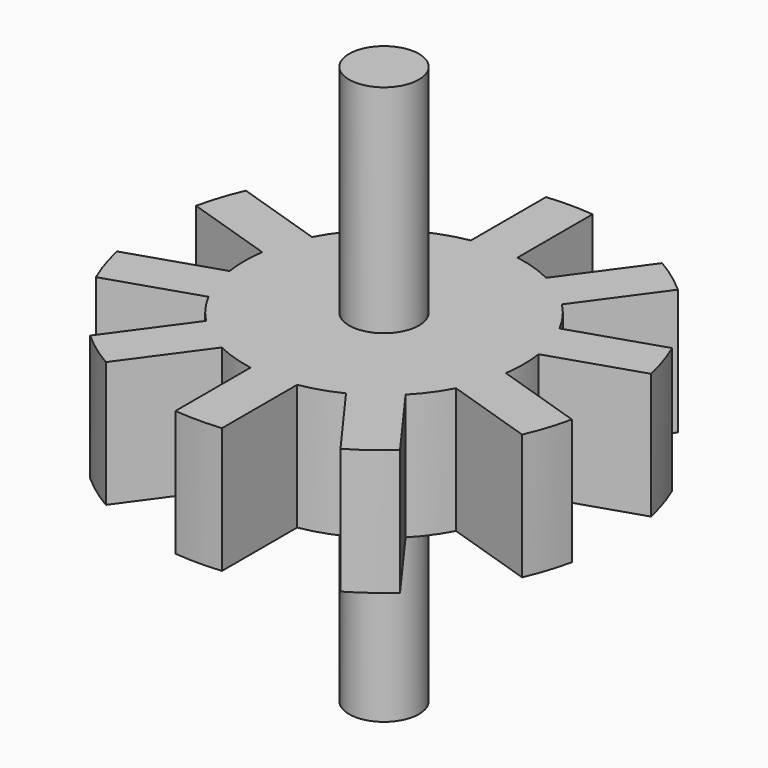
from build123d import *

# Parameters (mm, degrees)
F1_DEPTH = 1.35
F2_R     = 0.75
F3_DEPTH = 6


with BuildPart() as f1:
    # F0 (on Top) → F1 (new body, symmetric)
    with BuildSketch(Plane.XY):
        with BuildLine():
            ThreePointArc((-2.9677716115, -0.4385563384), (-2.8531695489, -0.9270509831), (-2.6587546171, -1.3896128547))
            Line((-2.6587546171, -1.3896128547), (-1.3090169944, -0.9510565163))
            Line((-1.3090169944, -0.9510565163), (-0.8090169944, -0.2628655561))
            Line((-0.8090169944, -0.2628655561), (-1.6180339887, 0))
            Line((-1.6180339887, 0), (-2.9677716115, -0.4385563384))
        make_face()
        with BuildLine():
            ThreePointArc((2.1432007211, -2.0992119162), (2.4270509831, -1.7633557569), (2.6587546171, -1.3896128547))
            Line((2.6587546171, -1.3896128547), (1.3090169944, -0.9510565163))
            Line((1.3090169944, -0.9510565163), (2.1432007211, -2.0992119162))
        make_face()
        with BuildLine():
            ThreePointArc((-2.1432007211, -2.0992119162), (-1.7633557569, -2.4270509831), (-1.3341837268, -2.6869971684))
            Line((-1.3341837268, -2.6869971684), (-0.5, -1.5388417686))
            Line((-0.5, -1.5388417686), (-0.5, -0.6881909602))
            Line((-0.5, -0.6881909602), (-1.3090169944, -0.9510565163))
            Line((-1.3090169944, -0.9510565163), (-2.1432007211, -2.0992119162))
        make_face()
        Polygon((0.6180339887, 0), (0.8090169944, 0.2628655561), (0.5, 0.363271264), (0.5, 0.1624598481), align=None)
        with BuildLine():
            ThreePointArc((0.5, -2.9580398915), (0.9270509831, -2.8531695489), (1.3341837268, -2.6869971684))
            Line((1.3341837268, -2.6869971684), (0.5, -1.5388417686))
            Line((0.5, -1.5388417686), (0.5, -2.9580398915))
        make_face()
        with BuildLine():
            ThreePointArc((0.4045084972, -0.2938926261), (0.4755282581, -0.1545084972), (0.5, 0))
            Line((0.5, 0), (-0.5, 0))
            ThreePointArc((-0.5, 0), (-0.4755282581, -0.1545084972), (-0.4045084972, -0.2938926261))
            ThreePointArc((-0.4045084972, -0.2938926261), (-0.2938926261, -0.4045084972), (-0.1545084972, -0.4755282581))
            ThreePointArc((-0.1545084972, -0.4755282581), (0, -0.5), (0.1545084972, -0.4755282581))
            ThreePointArc((0.1545084972, -0.4755282581), (0.2938926261, -0.4045084972), (0.4045084972, -0.2938926261))
        make_face()
        Polygon((-0.6180339887, 0), (-0.5, 0.1624598481), (-0.5, 0.363271264), (-0.8090169944, 0.2628655561), align=None)
        Polygon((0.5, -0.6881909602), (0.5, -0.363271264), (0.3090169944, -0.4253254042), (0.1909830056, -0.5877852523), align=None)
        with BuildLine():
            Line((-0.5, 1.5388417686), (-0.5, 2.9580398915))
            ThreePointArc((-0.5, 2.9580398915), (-0.9270509831, 2.8531695489), (-1.3341837268, 2.6869971684))
            Line((-1.3341837268, 2.6869971684), (-0.5, 1.5388417686))
        make_face()
        with BuildLine():
            Line((0.5, 1.5388417686), (1.3341837268, 2.6869971684))
            ThreePointArc((1.3341837268, 2.6869971684), (0.9270509831, 2.8531695489), (0.5, 2.9580398915))
            Line((0.5, 2.9580398915), (0.5, 1.5388417686))
        make_face()
        with BuildLine():
            Line((1.3090169944, 0.9510565163), (2.6587546171, 1.3896128547))
            ThreePointArc((2.6587546171, 1.3896128547), (2.4270509831, 1.7633557569), (2.1432007211, 2.0992119162))
            Line((2.1432007211, 2.0992119162), (1.3090169944, 0.9510565163))
        make_face()
        Polygon((0.8090169944, 0.2628655561), (1.3090169944, 0.9510565163), (0.5, 0.6881909602), (0.5, 0.363271264), align=None)
        Polygon((-0.5, -0.6881909602), (-0.1909830056, -0.5877852523), (-0.3090169944, -0.4253254042), (-0.5, -0.363271264), align=None)
        with BuildLine():
            Line((-1.3090169944, 0.9510565163), (-2.6587546171, 1.3896128547))
            ThreePointArc((-2.6587546171, 1.3896128547), (-2.8531695489, 0.9270509831), (-2.9677716115, 0.4385563384))
            Line((-2.9677716115, 0.4385563384), (-1.6180339887, 0))
            Line((-1.6180339887, 0), (-0.8090169944, 0.2628655561))
            Line((-0.8090169944, 0.2628655561), (-1.3090169944, 0.9510565163))
        make_face()
        with BuildLine():
            Line((-1.6180339887, 0), (-2.9677716115, 0.4385563384))
            ThreePointArc((-2.9677716115, 0.4385563384), (-3, 0), (-2.9677716115, -0.4385563384))
            Line((-2.9677716115, -0.4385563384), (-1.6180339887, 0))
        make_face()
        with BuildLine():
            ThreePointArc((-1.3341837268, -2.6869971684), (-0.9270509831, -2.8531695489), (-0.5, -2.9580398915))
            Line((-0.5, -2.9580398915), (-0.5, -1.5388417686))
            Line((-0.5, -1.5388417686), (-1.3341837268, -2.6869971684))
        make_face()
        with BuildLine():
            Line((-1.3090169944, 0.9510565163), (-2.1432007211, 2.0992119162))
            ThreePointArc((-2.1432007211, 2.0992119162), (-2.4270509831, 1.7633557569), (-2.6587546171, 1.3896128547))
            Line((-2.6587546171, 1.3896128547), (-1.3090169944, 0.9510565163))
        make_face()
        with BuildLine():
            ThreePointArc((-2.6587546171, -1.3896128547), (-2.4270509831, -1.7633557569), (-2.1432007211, -2.0992119162))
            Line((-2.1432007211, -2.0992119162), (-1.3090169944, -0.9510565163))
            Line((-1.3090169944, -0.9510565163), (-2.6587546171, -1.3896128547))
        make_face()
        Polygon((-0.3090169944, 0.4253254042), (-0.1909830056, 0.5877852523), (-0.5, 0.6881909602), (-0.5, 0.363271264), align=None)
        Polygon((0.5, -1.5388417686), (0.5, -0.6881909602), (0.1909830056, -0.5877852523), (0, -0.8506508084), align=None)
        with BuildLine():
            Line((-0.5, 0), (0.5, 0))
            ThreePointArc((0.5, 0), (0.4755282581, 0.1545084972), (0.4045084972, 0.2938926261))
            ThreePointArc((0.4045084972, 0.2938926261), (0.2938926261, 0.4045084972), (0.1545084972, 0.4755282581))
            ThreePointArc((0.1545084972, 0.4755282581), (0, 0.5), (-0.1545084972, 0.4755282581))
            ThreePointArc((-0.1545084972, 0.4755282581), (-0.2938926261, 0.4045084972), (-0.4045084972, 0.2938926261))
            ThreePointArc((-0.4045084972, 0.2938926261), (-0.4755282581, 0.1545084972), (-0.5, 0))
        make_face()
        with BuildLine():
            Line((1.6180339887, 0), (2.9677716115, 0.4385563384))
            ThreePointArc((2.9677716115, 0.4385563384), (2.8531695489, 0.9270509831), (2.6587546171, 1.3896128547))
            Line((2.6587546171, 1.3896128547), (1.3090169944, 0.9510565163))
            Line((1.3090169944, 0.9510565163), (0.8090169944, 0.2628655561))
            Line((0.8090169944, 0.2628655561), (1.6180339887, 0))
        make_face()
        Polygon((0.1909830056, 0.5877852523), (0.5, 0.6881909602), (0.5, 1.5388417686), (0, 0.8506508084), align=None)
        Polygon((-0.5, 0.363271264), (-0.5, 0.6881909602), (-1.3090169944, 0.9510565163), (-0.8090169944, 0.2628655561), align=None)
        with BuildLine():
            Line((0.5, 1.5388417686), (0.5, 2.9580398915))
            ThreePointArc((0.5, 2.9580398915), (0, 3), (-0.5, 2.9580398915))
            Line((-0.5, 2.9580398915), (-0.5, 1.5388417686))
            Line((-0.5, 1.5388417686), (0, 0.8506508084))
            Line((0, 0.8506508084), (0.5, 1.5388417686))
        make_face()
        with BuildLine():
            ThreePointArc((2.6587546171, -1.3896128547), (2.8531695489, -0.9270509831), (2.9677716115, -0.4385563384))
            Line((2.9677716115, -0.4385563384), (1.6180339887, 0))
            Line((1.6180339887, 0), (0.8090169944, -0.2628655561))
            Line((0.8090169944, -0.2628655561), (1.3090169944, -0.9510565163))
            Line((1.3090169944, -0.9510565163), (2.6587546171, -1.3896128547))
        make_face()
        Polygon((-0.5, -0.363271264), (-0.5, -0.1624598481), (-0.6180339887, 0), (-0.8090169944, -0.2628655561), align=None)
        Polygon((0.8090169944, -0.2628655561), (1.6180339887, 0), (0.8090169944, 0.2628655561), (0.6180339887, 0), align=None)
        Polygon((-0.1909830056, 0.5877852523), (0, 0.8506508084), (-0.5, 1.5388417686), (-0.5, 0.6881909602), align=None)
        Polygon((0, -0.8506508084), (0.1909830056, -0.5877852523), (0, -0.5257311121), (-0.1909830056, -0.5877852523), align=None)
        Polygon((0, 0.5257311121), (0.1909830056, 0.5877852523), (0, 0.8506508084), (-0.1909830056, 0.5877852523), align=None)
        with BuildLine():
            ThreePointArc((1.3341837268, -2.6869971684), (1.7633557569, -2.4270509831), (2.1432007211, -2.0992119162))
            Line((2.1432007211, -2.0992119162), (1.3090169944, -0.9510565163))
            Line((1.3090169944, -0.9510565163), (0.5, -0.6881909602))
            Line((0.5, -0.6881909602), (0.5, -1.5388417686))
            Line((0.5, -1.5388417686), (1.3341837268, -2.6869971684))
        make_face()
        with BuildLine():
            Line((1.3090169944, 0.9510565163), (2.1432007211, 2.0992119162))
            ThreePointArc((2.1432007211, 2.0992119162), (1.7633557569, 2.4270509831), (1.3341837268, 2.6869971684))
            Line((1.3341837268, 2.6869971684), (0.5, 1.5388417686))
            Line((0.5, 1.5388417686), (0.5, 0.6881909602))
            Line((0.5, 0.6881909602), (1.3090169944, 0.9510565163))
        make_face()
        Polygon((-0.8090169944, -0.2628655561), (-0.6180339887, 0), (-0.8090169944, 0.2628655561), (-1.6180339887, 0), align=None)
        Polygon((0.5, -0.363271264), (0.8090169944, -0.2628655561), (0.6180339887, 0), (0.5, -0.1624598481), align=None)
        Polygon((-0.5, -1.5388417686), (0, -0.8506508084), (-0.1909830056, -0.5877852523), (-0.5, -0.6881909602), align=None)
        with BuildLine():
            ThreePointArc((-0.5, -2.9580398915), (0, -3), (0.5, -2.9580398915))
            Line((0.5, -2.9580398915), (0.5, -1.5388417686))
            Line((0.5, -1.5388417686), (0, -0.8506508084))
            Line((0, -0.8506508084), (-0.5, -1.5388417686))
            Line((-0.5, -1.5388417686), (-0.5, -2.9580398915))
        make_face()
        with BuildLine():
            ThreePointArc((2.9677716115, -0.4385563384), (2.9919320543, -0.2198694675), (3, 0))
            ThreePointArc((3, 0), (2.9919320543, 0.2198694675), (2.9677716115, 0.4385563384))
            Line((2.9677716115, 0.4385563384), (1.6180339887, 0))
            Line((1.6180339887, 0), (2.9677716115, -0.4385563384))
        make_face()
        Polygon((1.3090169944, -0.9510565163), (0.8090169944, -0.2628655561), (0.5, -0.363271264), (0.5, -0.6881909602), align=None)
        Polygon((0.5, 0.363271264), (0.5, 0.6881909602), (0.1909830056, 0.5877852523), (0.3090169944, 0.4253254042), align=None)
        with BuildLine():
            Line((-0.5, 1.5388417686), (-1.3341837268, 2.6869971684))
            ThreePointArc((-1.3341837268, 2.6869971684), (-1.7633557569, 2.4270509831), (-2.1432007211, 2.0992119162))
            Line((-2.1432007211, 2.0992119162), (-1.3090169944, 0.9510565163))
            Line((-1.3090169944, 0.9510565163), (-0.5, 0.6881909602))
            Line((-0.5, 0.6881909602), (-0.5, 1.5388417686))
        make_face()
        Polygon((-1.3090169944, -0.9510565163), (-0.5, -0.6881909602), (-0.5, -0.363271264), (-0.8090169944, -0.2628655561), align=None)
        Polygon((-0.1909830056, -0.5877852523), (0, -0.5257311121), (-0.1545084972, -0.4755282581), (-0.3090169944, -0.4253254042), align=None)
        Polygon((0.3090169944, -0.4253254042), (0.5, -0.363271264), (0.5, -0.1624598481), (0.4045084972, -0.2938926261), align=None)
        Polygon((-0.1545084972, 0.4755282581), (0, 0.5257311121), (-0.1909830056, 0.5877852523), (-0.3090169944, 0.4253254042), align=None)
        Polygon((-0.4045084972, -0.2938926261), (-0.5, -0.1624598481), (-0.5, -0.363271264), (-0.3090169944, -0.4253254042), align=None)
        Polygon((0.3090169944, 0.4253254042), (0.1909830056, 0.5877852523), (0, 0.5257311121), (0.1545084972, 0.4755282581), align=None)
        Polygon((0.1909830056, -0.5877852523), (0.3090169944, -0.4253254042), (0.1545084972, -0.4755282581), (0, -0.5257311121), align=None)
        with BuildLine():
            Line((-0.5, 0.1624598481), (-0.5, 0))
            ThreePointArc((-0.5, 0), (-0.4755282581, 0.1545084972), (-0.4045084972, 0.2938926261))
            Line((-0.4045084972, 0.2938926261), (-0.5, 0.1624598481))
        make_face()
        Polygon((0.5, -0.1624598481), (0.6180339887, 0), (0.5, 0.1624598481), (0.5, 0), align=None)
        Polygon((0.5, 0.1624598481), (0.5, 0.363271264), (0.3090169944, 0.4253254042), (0.4045084972, 0.2938926261), align=None)
        with BuildLine():
            Line((-0.3090169944, -0.4253254042), (-0.1545084972, -0.4755282581))
            ThreePointArc((-0.1545084972, -0.4755282581), (-0.2938926261, -0.4045084972), (-0.4045084972, -0.2938926261))
            Line((-0.4045084972, -0.2938926261), (-0.3090169944, -0.4253254042))
        make_face()
        Polygon((-0.4045084972, 0.2938926261), (-0.3090169944, 0.4253254042), (-0.5, 0.363271264), (-0.5, 0.1624598481), align=None)
        with BuildLine():
            Line((0.4045084972, 0.2938926261), (0.3090169944, 0.4253254042))
            Line((0.3090169944, 0.4253254042), (0.1545084972, 0.4755282581))
            ThreePointArc((0.1545084972, 0.4755282581), (0.2938926261, 0.4045084972), (0.4045084972, 0.2938926261))
        make_face()
        with BuildLine():
            ThreePointArc((-0.4045084972, -0.2938926261), (-0.4755282581, -0.1545084972), (-0.5, 0))
            Line((-0.5, 0), (-0.5, -0.1624598481))
            Line((-0.5, -0.1624598481), (-0.4045084972, -0.2938926261))
        make_face()
        with BuildLine():
            Line((0.1545084972, -0.4755282581), (0.3090169944, -0.4253254042))
            Line((0.3090169944, -0.4253254042), (0.4045084972, -0.2938926261))
            ThreePointArc((0.4045084972, -0.2938926261), (0.2938926261, -0.4045084972), (0.1545084972, -0.4755282581))
        make_face()
        with BuildLine():
            ThreePointArc((-0.4045084972, 0.2938926261), (-0.2938926261, 0.4045084972), (-0.1545084972, 0.4755282581))
            Line((-0.1545084972, 0.4755282581), (-0.3090169944, 0.4253254042))
            Line((-0.3090169944, 0.4253254042), (-0.4045084972, 0.2938926261))
        make_face()
        with BuildLine():
            Line((0.4045084972, -0.2938926261), (0.5, -0.1624598481))
            Line((0.5, -0.1624598481), (0.5, 0))
            ThreePointArc((0.5, 0), (0.4755282581, -0.1545084972), (0.4045084972, -0.2938926261))
        make_face()
        with BuildLine():
            Line((0.5, 0), (0.5, 0.1624598481))
            Line((0.5, 0.1624598481), (0.4045084972, 0.2938926261))
            ThreePointArc((0.4045084972, 0.2938926261), (0.4755282581, 0.1545084972), (0.5, 0))
        make_face()
        with BuildLine():
            Line((0, -0.5257311121), (0.1545084972, -0.4755282581))
            ThreePointArc((0.1545084972, -0.4755282581), (0, -0.5), (-0.1545084972, -0.4755282581))
            Line((-0.1545084972, -0.4755282581), (0, -0.5257311121))
        make_face()
        with BuildLine():
            Line((0.1545084972, 0.4755282581), (0, 0.5257311121))
            Line((0, 0.5257311121), (-0.1545084972, 0.4755282581))
            ThreePointArc((-0.1545084972, 0.4755282581), (0, 0.5), (0.1545084972, 0.4755282581))
        make_face()
        Polygon((-0.5, -0.1624598481), (-0.5, 0), (-0.5, 0.1624598481), (-0.6180339887, 0), align=None)
        with BuildLine():
            ThreePointArc((-2.1432007211, 2.0992119162), (-1.7633557569, 2.4270509831), (-1.3341837268, 2.6869971684))
            Line((-1.3341837268, 2.6869971684), (-2.5196862116, 4.3187013552))
            ThreePointArc((-2.5196862116, 4.3187013552), (-2.9389262615, 4.0450849719), (-3.3287032059, 3.7309161029))
            Line((-3.3287032059, 3.7309161029), (-2.1432007211, 2.0992119162))
        make_face()
        with BuildLine():
            ThreePointArc((-0.5, 2.9580398915), (0, 3), (0.5, 2.9580398915))
            Line((0.5, 2.9580398915), (0.5, 4.9749371855))
            ThreePointArc((0.5, 4.9749371855), (0, 5), (-0.5, 4.9749371855))
            Line((-0.5, 4.9749371855), (-0.5, 2.9580398915))
        make_face()
        with BuildLine():
            ThreePointArc((1.3341837268, 2.6869971684), (1.7633557569, 2.4270509831), (2.1432007211, 2.0992119162))
            Line((2.1432007211, 2.0992119162), (3.3287032059, 3.7309161029))
            ThreePointArc((3.3287032059, 3.7309161029), (2.9389262615, 4.0450849719), (2.5196862116, 4.3187013552))
            Line((2.5196862116, 4.3187013552), (1.3341837268, 2.6869971684))
        make_face()
        with BuildLine():
            ThreePointArc((2.6587546171, 1.3896128547), (2.8531695489, 0.9270509831), (2.9677716115, 0.4385563384))
            Line((2.9677716115, 0.4385563384), (4.8859549256, 1.0618118781))
            ThreePointArc((4.8859549256, 1.0618118781), (4.7552825815, 1.5450849719), (4.5769379313, 2.0128683944))
            Line((4.5769379313, 2.0128683944), (2.6587546171, 1.3896128547))
        make_face()
        with BuildLine():
            Line((3.3287032059, -3.7309161029), (2.1432007211, -2.0992119162))
            ThreePointArc((2.1432007211, -2.0992119162), (1.7633557569, -2.4270509831), (1.3341837268, -2.6869971684))
            Line((1.3341837268, -2.6869971684), (2.5196862116, -4.3187013552))
            ThreePointArc((2.5196862116, -4.3187013552), (2.9389262615, -4.0450849719), (3.3287032059, -3.7309161029))
        make_face()
        with BuildLine():
            Line((4.8859549256, -1.0618118781), (2.9677716115, -0.4385563384))
            ThreePointArc((2.9677716115, -0.4385563384), (2.8531695489, -0.9270509831), (2.6587546171, -1.3896128547))
            Line((2.6587546171, -1.3896128547), (4.5769379313, -2.0128683944))
            ThreePointArc((4.5769379313, -2.0128683944), (4.7552825815, -1.5450849719), (4.8859549256, -1.0618118781))
        make_face()
        with BuildLine():
            Line((0.5, -4.9749371855), (0.5, -2.9580398915))
            ThreePointArc((0.5, -2.9580398915), (0, -3), (-0.5, -2.9580398915))
            Line((-0.5, -2.9580398915), (-0.5, -4.9749371855))
            ThreePointArc((-0.5, -4.9749371855), (0, -5), (0.5, -4.9749371855))
        make_face()
        with BuildLine():
            Line((-2.5196862116, -4.3187013552), (-1.3341837268, -2.6869971684))
            ThreePointArc((-1.3341837268, -2.6869971684), (-1.7633557569, -2.4270509831), (-2.1432007211, -2.0992119162))
            Line((-2.1432007211, -2.0992119162), (-3.3287032059, -3.7309161029))
            ThreePointArc((-3.3287032059, -3.7309161029), (-2.9389262615, -4.0450849719), (-2.5196862116, -4.3187013552))
        make_face()
        with BuildLine():
            Line((-4.5769379313, -2.0128683944), (-2.6587546171, -1.3896128547))
            ThreePointArc((-2.6587546171, -1.3896128547), (-2.8531695489, -0.9270509831), (-2.9677716115, -0.4385563384))
            Line((-2.9677716115, -0.4385563384), (-4.8859549256, -1.0618118781))
            ThreePointArc((-4.8859549256, -1.0618118781), (-4.7552825815, -1.5450849719), (-4.5769379313, -2.0128683944))
        make_face()
        with BuildLine():
            ThreePointArc((-2.9677716115, 0.4385563384), (-2.8531695489, 0.9270509831), (-2.6587546171, 1.3896128547))
            Line((-2.6587546171, 1.3896128547), (-4.5769379313, 2.0128683944))
            ThreePointArc((-4.5769379313, 2.0128683944), (-4.7552825815, 1.5450849719), (-4.8859549256, 1.0618118781))
            Line((-4.8859549256, 1.0618118781), (-2.9677716115, 0.4385563384))
        make_face()
    extrude(amount=F1_DEPTH, both=True)

    # F2 (on Top) → F3 (join, symmetric)
    with BuildSketch(Plane.XY):
        Circle(F2_R)
    extrude(amount=F3_DEPTH, both=True)


solid = f1.part
